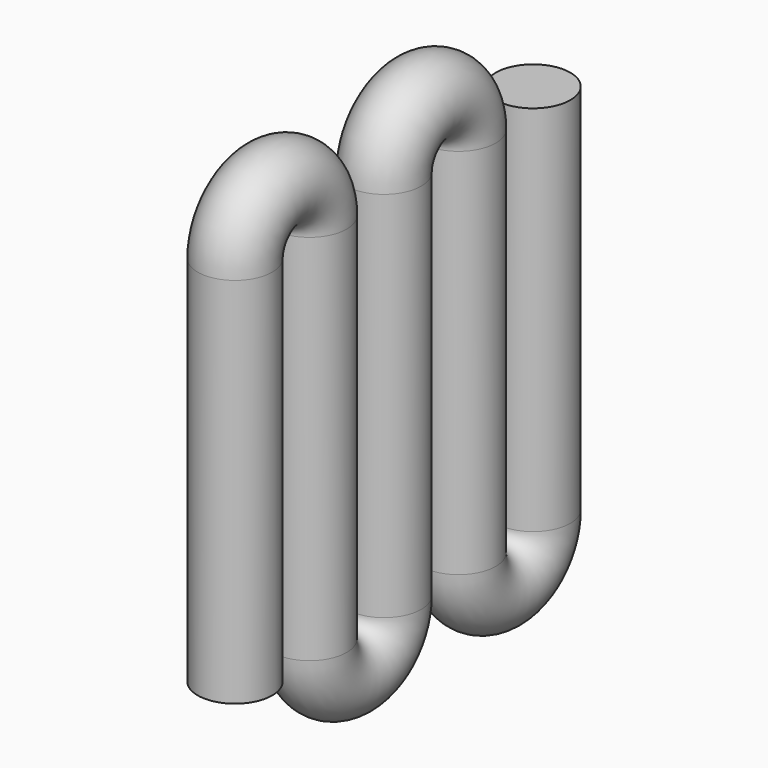
from build123d import *

# Parameters (mm, degrees)
F0_R = 10


with BuildPart() as f2:
    # F2: sweep along a path in F1
    with BuildLine(Plane.YZ) as f2_path:
        Line((0, 0), (0, 100))
        ThreePointArc((0, 100), (12.5, 112.5), (25, 100))
        Line((25, 100), (25, 0))
        ThreePointArc((25, 0), (37.5, -12.5), (50, 0))
        Line((50, 0), (50, 100))
        ThreePointArc((50, 100), (62.5, 112.5), (75, 100))
        Line((75, 100), (75, 0))
        ThreePointArc((75, 0), (87.5, -12.5), (100, 0))
        Line((100, 0), (100, 100))
    # F0 (on Top) → F2 (sweep)
    with BuildSketch(Plane.XY):
        Circle(F0_R)
    sweep(path=f2_path.line)


solid = f2.part
